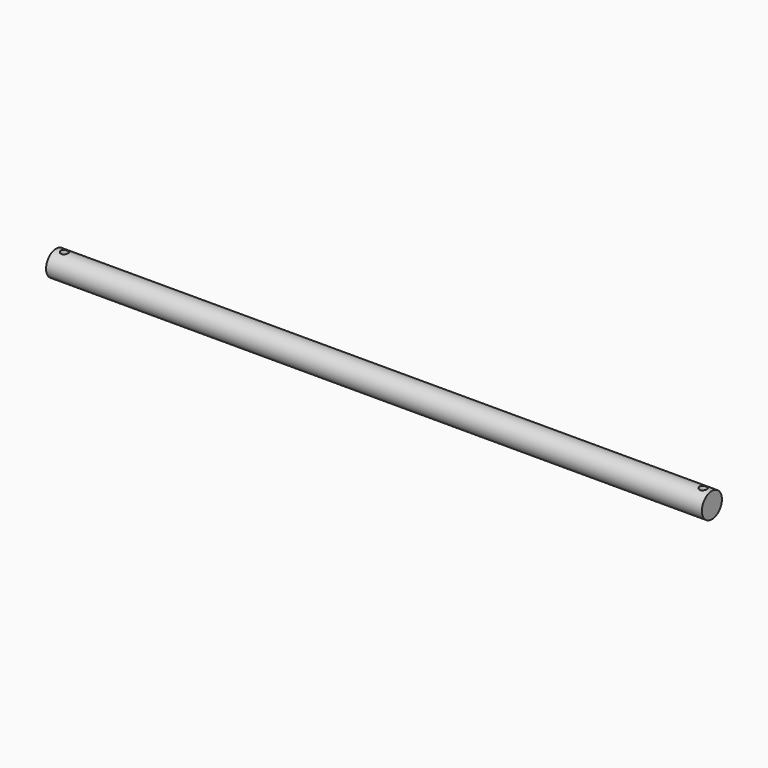
from build123d import *

# Parameters (mm, degrees)
F0_R     = 25
F1_DEPTH = 1309
F2_R     = 7.5
F3_DEPTH = 50


with BuildPart() as f1:
    # F0 (on Right) → F1 (new body)
    with BuildSketch(Plane.YZ):
        Circle(F0_R)
    extrude(amount=F1_DEPTH)

    # F2 (on Top) → F3 (cut, symmetric)
    with BuildSketch(Plane.XY):
        with Locations((17, 0)):
            Circle(F2_R)
        with Locations((1292, 0)):
            Circle(F2_R)
    extrude(amount=F3_DEPTH, both=True, mode=Mode.SUBTRACT)


solid = f1.part
